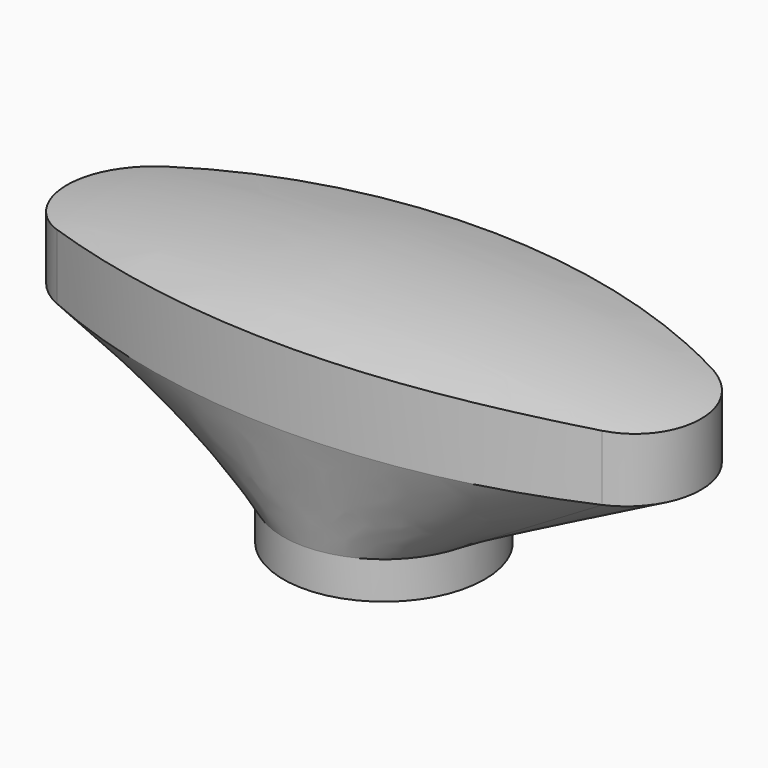
from build123d import *

# Parameters (mm, degrees)
SKETCH001_R  = 13.5
PAD_DEPTH    = 12
PAD001_DEPTH = 5


with BuildPart() as part:
    # Sketch → AdditiveLoft section 0
    with BuildSketch(Plane.XY):
        with BuildLine():
            ThreePointArc((-36.562505, 9.137617), (-42.5, 6e-06), (-36.562516, -9.137612))
            ThreePointArc((-36.562516, -9.137612), (-9e-06, -16.899042), (36.5625, -9.13762))
            ThreePointArc((36.5625, -9.13762), (42.5, 0), (36.5625, 9.13762))
            ThreePointArc((36.5625, 9.13762), (-3e-06, 16.899042), (-36.562505, 9.137617))
        make_face()
    # Sketch001 → AdditiveLoft section 1
    with BuildSketch(Plane.XY.offset(-15)):
        Circle(SKETCH001_R)
    loft()

    # Sketch → Pad (new body)
    with BuildSketch(Plane.XY):
        with BuildLine():
            ThreePointArc((-36.562505, 9.137617), (-42.5, 6e-06), (-36.562516, -9.137612))
            ThreePointArc((-36.562516, -9.137612), (-9e-06, -16.899042), (36.5625, -9.13762))
            ThreePointArc((36.5625, -9.13762), (42.5, 0), (36.5625, 9.13762))
            ThreePointArc((36.5625, 9.13762), (-3e-06, 16.899042), (-36.562505, 9.137617))
        make_face()
    extrude(amount=PAD_DEPTH)

    # Sketch001 → Pad001 (join)
    with BuildSketch(Plane.XY.offset(-15)):
        Circle(SKETCH001_R)
    extrude(amount=-PAD001_DEPTH)

    # SubtractivePipe: sweep along a path in Sketch002
    with BuildLine(Plane.XZ) as subtractivepipe_path:
        ThreePointArc((54.893133, 5.916665), (0.078349, 12), (-54.736434, 5.916665))
    # Sketch003 → SubtractivePipe (sweep, cut)
    with BuildSketch(Plane.YZ):
        with BuildLine():
            ThreePointArc((33.346504, 4.178945), (1.160914, 11.991015), (-31.251067, 5.178962))
            Line((-31.251067, 5.178962), (-31.251067, 34.885342))
            Line((-31.251067, 34.885342), (33.346504, 34.885342))
            Line((33.346504, 34.885342), (33.346504, 4.178945))
        make_face()
    sweep(path=subtractivepipe_path.line, mode=Mode.SUBTRACT)


solid = part.part
